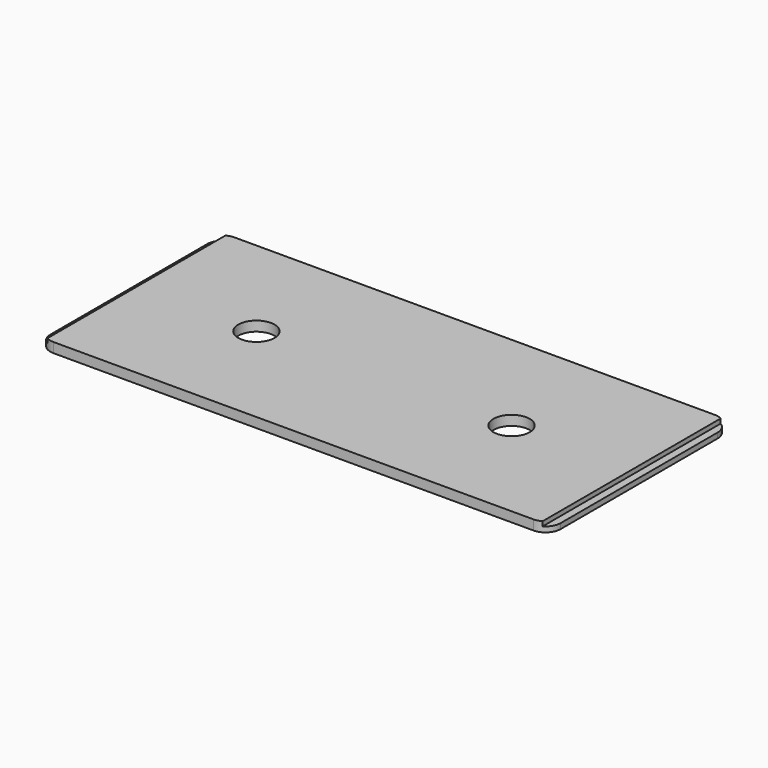
from build123d import *

# Parameters (mm, degrees)
F0_W     = 169
F0_H     = 75
F0_R     = 6
F1_DEPTH = 1.75
F2_W     = 164
F2_H     = 75
F3_DEPTH = 1.5
F4_R     = 5
F5_DEPTH = 25


with BuildPart() as f1:
    # F0 (on Top) → F1 (new body)
    with BuildSketch(Plane.XY):
        Rectangle(F0_W, F0_H)
        with Locations((-42.25, 0)):
            Circle(F0_R, mode=Mode.SUBTRACT)
        with Locations((42.25, 0)):
            Circle(F0_R, mode=Mode.SUBTRACT)
    extrude(amount=F1_DEPTH)

    # F2 (on face) → F3 (join)
    with BuildSketch(Plane.XY.offset(1.75)):
        Rectangle(F2_W, F2_H)
    extrude(amount=F3_DEPTH)

    # F4
    f4_edges = [f1.edges().sort_by_distance(p)[0] for p in [
        (-84.5, -37.5, 0.875),
        (84.5, -37.5, 0.875),
        (84.5, 37.5, 0.875),
        (-84.5, 37.5, 0.875),
    ]]
    fillet(f4_edges, radius=F4_R)

    # F0 (on Top) → F5 (cut)
    with BuildSketch(Plane.XY):
        with Locations((42.25, 0)):
            Circle(F0_R)
        with Locations((-42.25, 0)):
            Circle(F0_R)
    extrude(amount=F5_DEPTH, mode=Mode.SUBTRACT)


solid = f1.part
